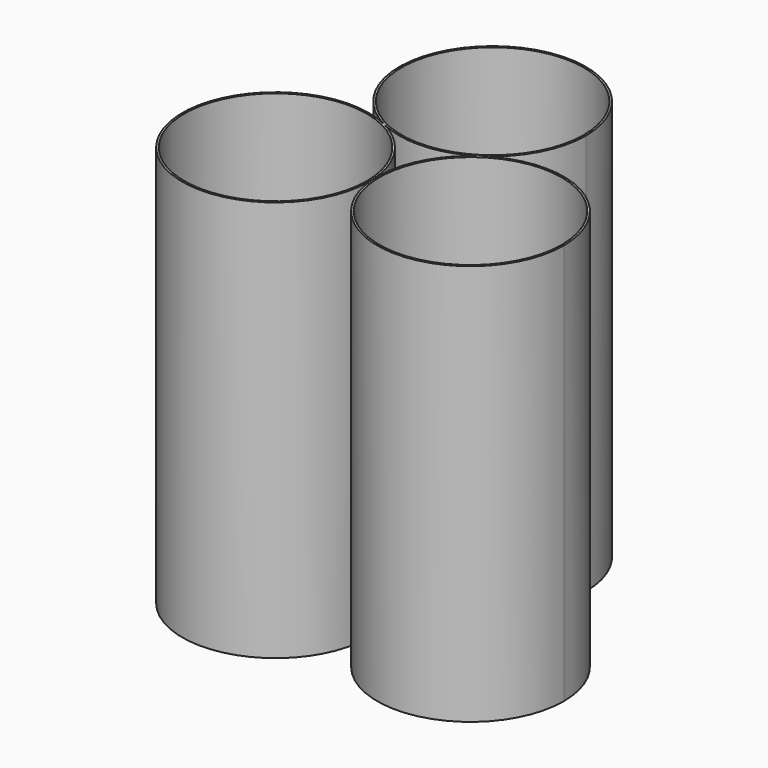
from build123d import *

# Parameters (mm, degrees)
F0_R     = 9.1
F1_DEPTH = 40


with BuildPart() as f1:
    # F0 (on Top) → F1 (new body)
    with BuildSketch(Plane.XY):
        with BuildLine():
            ThreePointArc((-27.433393, 26.949338), (-39.518416, 13.753102), (-22.303983, 18.636927))
            ThreePointArc((-22.303983, 18.636927), (-22.30797, 18.909228), (-22.319929, 19.181295))
            ThreePointArc((-22.319929, 19.181295), (-23.83594, 23.750391), (-27.433393, 26.949338))
        make_face()
        with Locations((-31.603983, 18.636927)):
            Circle(F0_R, mode=Mode.SUBTRACT)
        with BuildLine():
            ThreePointArc((-18.149338, 27.493706), (-21.348285, 23.896254), (-22.319929, 19.181295))
            ThreePointArc((-22.319929, 19.181295), (-12.763574, 10.42965), (-3.735875, 19.725663))
            ThreePointArc((-3.735875, 19.725663), (-8.623688, 27.912397), (-18.149338, 27.493706))
        make_face()
        with Locations((-13.035875, 19.725663)):
            Circle(F0_R, mode=Mode.SUBTRACT)
        with BuildLine():
            ThreePointArc((-13.962802, 35.261749), (-28.146627, 43.176182), (-27.433393, 26.949338))
            ThreePointArc((-27.433393, 26.949338), (-22.718434, 25.977695), (-18.149338, 27.493706))
            ThreePointArc((-18.149338, 27.493706), (-15.076068, 30.849562), (-13.962802, 35.261749))
        make_face()
        with Locations((-23.262802, 35.261749)):
            Circle(F0_R, mode=Mode.SUBTRACT)
    extrude(amount=F1_DEPTH)


solid = f1.part
